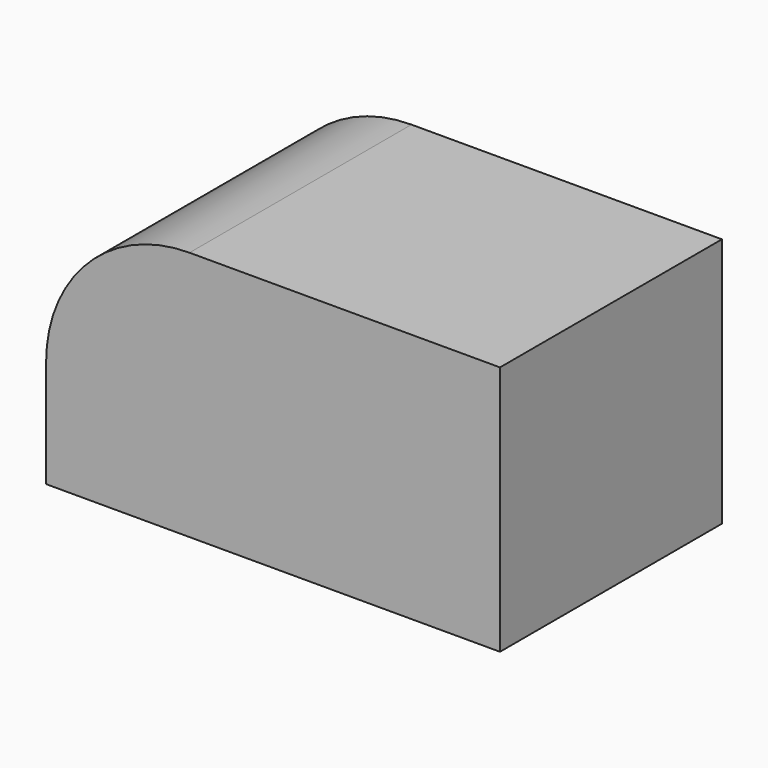
from build123d import *

# Parameters (mm, degrees)
F0_W     = 92.442896
F0_H     = 50.99131
F1_DEPTH = 56.5
F2_R     = 29.211984


with BuildPart() as f1:
    # F0 (on Front) → F1 (new body)
    with BuildSketch(Plane.XZ):
        with Locations((-0.082703, 9.766088)):
            Rectangle(F0_W, F0_H)
    extrude(amount=-F1_DEPTH)

    # F2
    f2_edges = [f1.edges().sort_by_distance(p)[0] for p in [
        (-46.304151, 28.25, 35.261743),
    ]]
    fillet(f2_edges, radius=F2_R)


solid = f1.part
